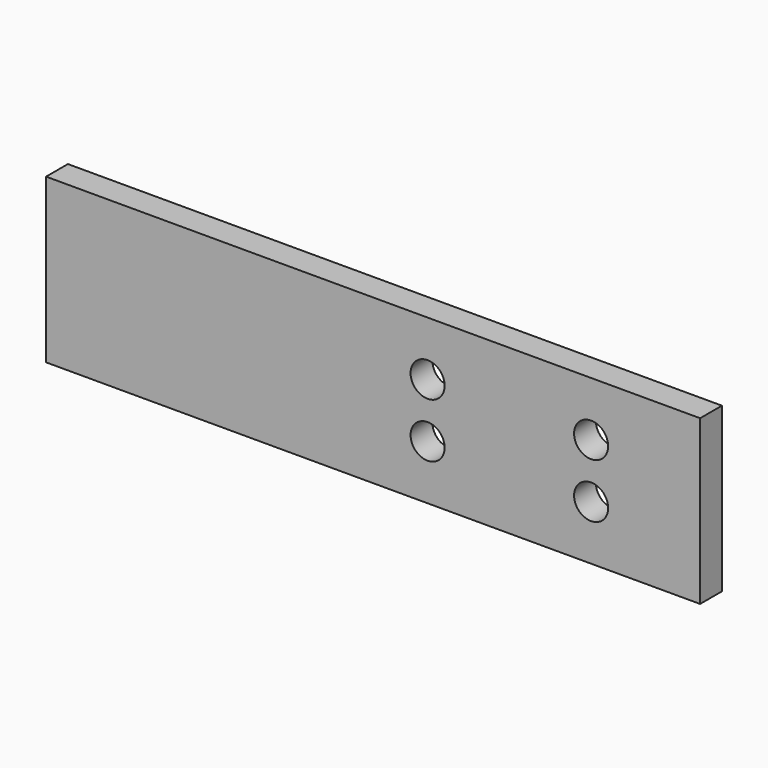
from build123d import *

# Parameters (mm, degrees)
F0_W     = 3.175
F0_H     = 19.05
F1_DEPTH = 38.1
F2_R     = 1.984375
F3_DEPTH = 3.175


with BuildPart() as f1:
    # F0 (on Right) → F1 (new body, symmetric)
    with BuildSketch(Plane.YZ):
        Rectangle(F0_W, F0_H)
    extrude(amount=F1_DEPTH, both=True)

    # F2 (on face) → F3 (cut, through all)
    with BuildSketch(Plane.XZ.offset(1.5875)):
        with Locations((25.4, -3.175)):
            Circle(F2_R)
        with Locations((6.35, -3.175)):
            Circle(F2_R)
        with Locations((25.4, 3.175)):
            Circle(F2_R)
        with Locations((6.35, 3.175)):
            Circle(F2_R)
    extrude(amount=-F3_DEPTH, mode=Mode.SUBTRACT)


solid = f1.part
